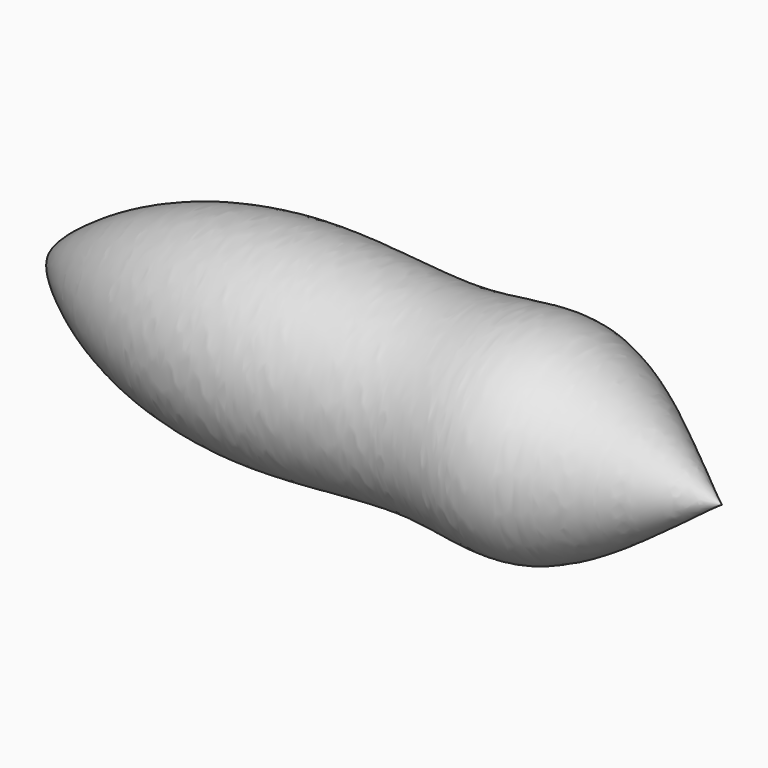
from build123d import *


with BuildPart() as f1:
    # F0 (on Top) → F1 (revolve)
    with BuildSketch(Plane.XY):
        with BuildLine():
            Line((-398.9246424397, 0), (0, 0))
            add(Edge.make_bspline(
                [(-398.9246424397, 0), (-402.0507960836, 5.8340565708), (-355.6536767868, 45.7627906128), (-258.9585375629, 66.633008777), (-163.3200073239, 50.2260290412), (-96.2603495365, 69.794579407), (-37.4164140426, 27.4354530848), (-17.335042702, 12.8297312312), (-5.2742440368, 3.4919810972), (0, 0)],
                knots=[0, 0, 0, 0, 0.1335879565, 0.3283833161, 0.5126316702, 0.6664941143, 0.819814317, 0.9152673713, 1, 1, 1, 1], degree=3))
        make_face()
    revolve(axis=Axis((-199.4623212199, 0, 0), (-1, 0, 0)))


solid = f1.part
